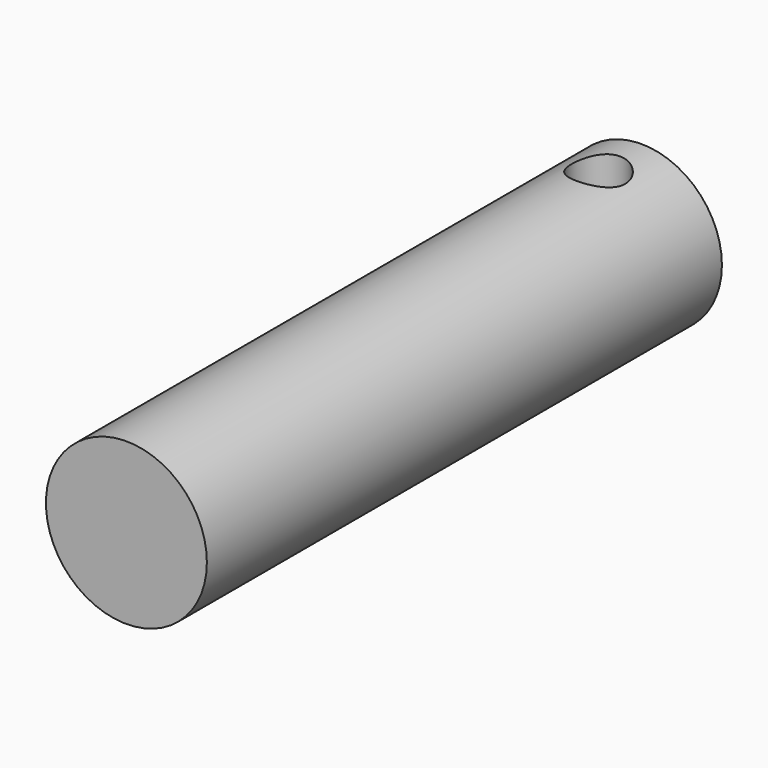
from build123d import *

# Parameters (mm, degrees)
F0_R     = 4.7625
F1_DEPTH = 38.1
F2_R     = 1.5875
F3_DEPTH = 25.4


with BuildPart() as f1:
    # F0 (on Front) → F1 (new body)
    with BuildSketch(Plane.XZ):
        Circle(F0_R)
    extrude(amount=F1_DEPTH)

    # F2 (on Top) → F3 (cut)
    with BuildSketch(Plane.XY):
        with Locations((0, -3.175)):
            Circle(F2_R)
    extrude(amount=F3_DEPTH, mode=Mode.SUBTRACT)


solid = f1.part
